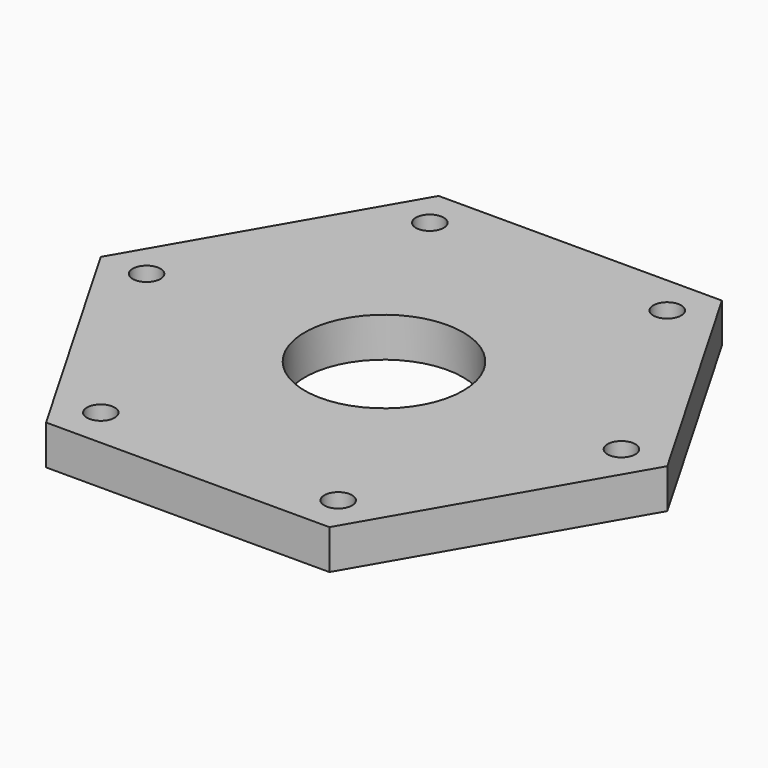
from build123d import *

# Parameters (mm, degrees)
F1_DEPTH = 5
F2_COUNT = 3
F3_R     = 10
F4_DEPTH = 5
F5_R     = 1.755872499
F6_DEPTH = 5


with BuildPart() as f1:
    # F0 (on Top) → F1 (new body)
    with BuildSketch(Plane.XY):
        Polygon((35.7957166898, 0), (17.8978583449, 31), (0, 0), (17.8978583449, -31), align=None)
    extrude(amount=-F1_DEPTH)

    # F2: F1 ×3 about axis
    f2_axis = Axis((0, 0, -2.5), (0, 0, 1))


with BuildPart() as f1_1:
    add(f1.part)
    for i in range(1, F2_COUNT):
        add(f1.part.rotate(f2_axis, i * 360 / F2_COUNT))

    # F3 (on face) → F4 (cut, through all)
    with BuildSketch(Plane.XY):
        Circle(F3_R)
    extrude(amount=-F4_DEPTH, mode=Mode.SUBTRACT)

    # F5 (on face) → F6 (cut, through all)
    with BuildSketch(Plane.XY):
        with Locations((15, -25.9807621135)):
            Circle(F5_R)
        with Locations((-15, -25.9807621135)):
            Circle(F5_R)
        with Locations((30, 0)):
            Circle(F5_R)
        with Locations((15, 25.9807621135)):
            Circle(F5_R)
        with Locations((-15, 25.9807621135)):
            Circle(F5_R)
        with Locations((-30, 0)):
            Circle(F5_R)
    extrude(amount=-F6_DEPTH, mode=Mode.SUBTRACT)


solid = f1_1.part
